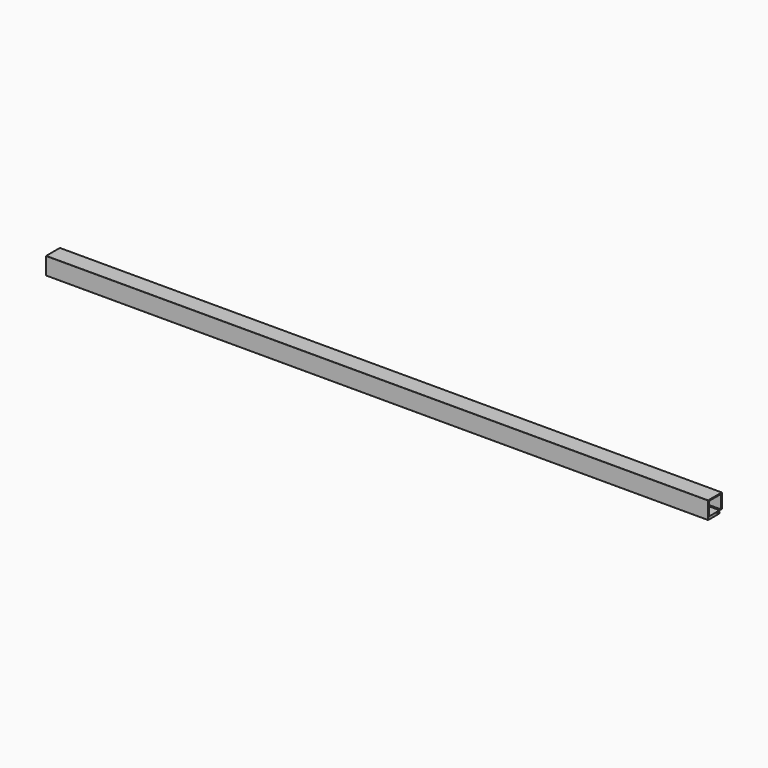
from build123d import *

# Parameters (mm, degrees)
F1_DEPTH = 1000


with BuildPart() as f1:
    # F0 (on Right) → F1 (new body)
    with BuildSketch(Plane.YZ):
        with BuildLine():
            ThreePointArc((26.264214, 25.964214), (26.176346, 26.176346), (25.964214, 26.264214))
            Line((25.964214, 26.264214), (0.3, 26.264214))
            ThreePointArc((0.3, 26.264214), (0.087868, 26.176346), (0, 25.964214))
            Line((0, 25.964214), (0, 0.3))
            ThreePointArc((0, 0.3), (0.087868, 0.087868), (0.3, 0))
            Line((0.3, 0), (22, 0))
            Line((22, 0), (22, 1.575))
            Line((22, 1.575), (17, 1.575))
            Line((17, 1.575), (17, 2.625))
            Line((17, 2.625), (22, 2.625))
            Line((22, 2.625), (22, 4.2))
            Line((22, 4.2), (1.9, 4.2))
            ThreePointArc((1.9, 4.2), (1.687868, 4.287868), (1.6, 4.5))
            Line((1.6, 4.5), (1.6, 24.364214))
            ThreePointArc((1.6, 24.364214), (1.687868, 24.576346), (1.9, 24.664214))
            Line((1.9, 24.664214), (24.364214, 24.664214))
            ThreePointArc((24.364214, 24.664214), (24.576346, 24.576346), (24.664214, 24.364214))
            Line((24.664214, 24.364214), (24.664214, 4.264214))
            Line((24.664214, 4.264214), (25.964214, 4.264214))
            ThreePointArc((25.964214, 4.264214), (26.176346, 4.352082), (26.264214, 4.564214))
            Line((26.264214, 4.564214), (26.264214, 25.964214))
        make_face()
    extrude(amount=F1_DEPTH)


solid = f1.part
